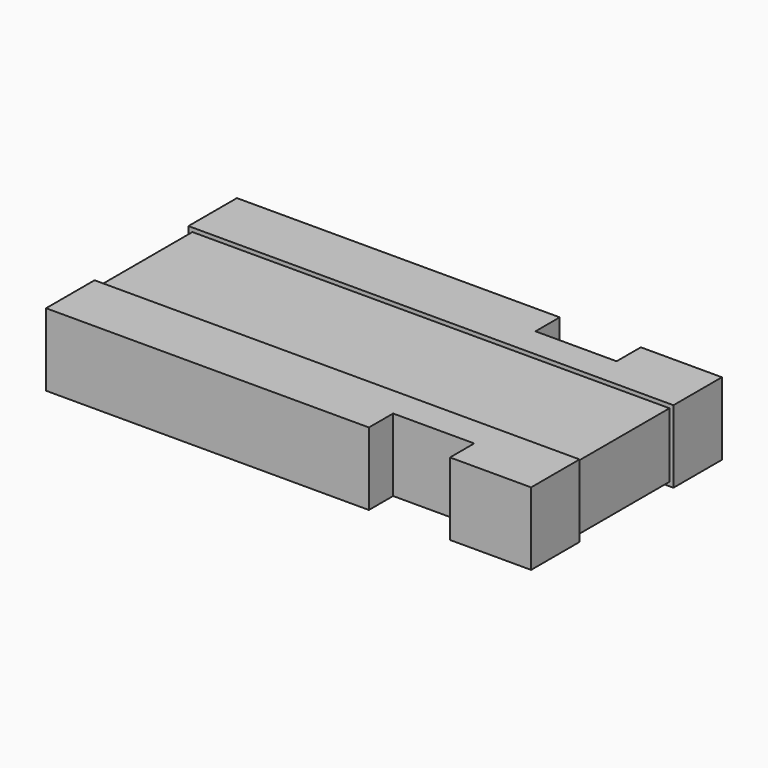
from build123d import *

# Parameters (mm, degrees)
PAD001_DEPTH = 0.457
SKETCH_W     = 3
SKETCH_H     = 0.738
PAD_DEPTH    = 0.407


with BuildPart() as pad001:
    # Sketch001 → Pad001 (new body)
    with BuildSketch(Plane.XY):
        Polygon((-1.525, -0.369), (1.525, -0.369), (1.525, -0.75), (1.015, -0.75), (1.015, -0.5595), (0.505, -0.5595), (0.505, -0.75), (-1.525, -0.75), align=None)
    extrude(amount=PAD001_DEPTH)


with BuildPart() as part_mirroring:
    # Part__Mirroring: instance of Pad001
    add(pad001.part.mirror(Plane(origin=(0, 0, 0), x_dir=(1, 0, 0), z_dir=(0, 1, 0))))


with BuildPart() as body:
    # Sketch → Pad (new body)
    with BuildSketch(Plane.XY.offset(0.025)):
        Rectangle(SKETCH_W, SKETCH_H)
    extrude(amount=PAD_DEPTH)


with BuildPart() as obj1:
    # Fusion base: copy of Pad001
    add(pad001.part)

    # Fusion: union Part__Mirroring, Body
    add(part_mirroring.part)
    add(body.part)


solid = obj1.part
